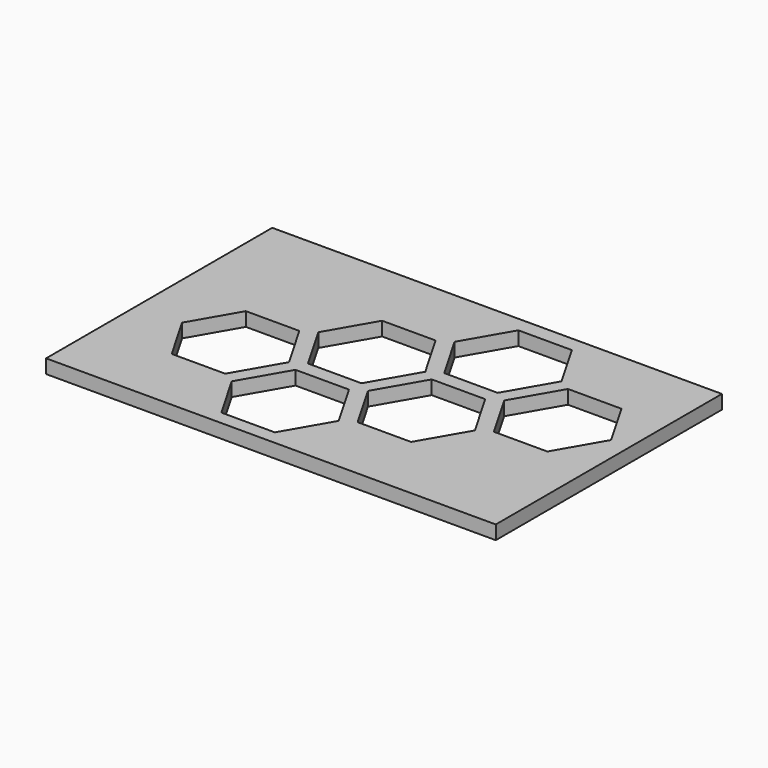
from build123d import *

# Parameters (mm, degrees)
F1_W     = 162.00855
F1_H     = 101.837539
F2_DEPTH = 5
F3_DEPTH = 5.001


with BuildPart() as f2:
    # F1 (on Top) → F2 (new body)
    with BuildSketch(Plane.XY):
        with Locations((45.444982, 10.055467)):
            Rectangle(F1_W, F1_H)
    extrude(amount=F2_DEPTH)

    # F0 (on Top) → F3 (cut, through all)
    with BuildSketch(Plane.XY):
        Polygon((-9.63525, -16.688743), (9.63525, -16.688743), (19.2705, 0), (9.63525, 16.688743), (-9.63525, 16.688743), (-19.2705, 0), align=None)
        Polygon((42.870847, -2.5), (23.600627, -2.5), (13.965517, -19.1885), (23.600627, -35.877), (42.870847, -35.877), (52.505957, -19.1885), align=None)
        Polygon((14.305305, 19.385), (23.940555, 2.696257), (43.211055, 2.696257), (52.846305, 19.385), (43.211055, 36.073743), (23.940555, 36.073743), align=None)
        Polygon((57.176432, -16.492), (76.446652, -16.492), (86.081762, 0.1965), (76.446652, 16.885), (57.176432, 16.885), (47.541322, 0.1965), align=None)
        Polygon((47.88111, 38.77), (57.51636, 22.081257), (76.78686, 22.081257), (86.42211, 38.77), (76.78686, 55.458743), (57.51636, 55.458743), align=None)
        Polygon((90.752237, 2.893), (110.022457, 2.893), (119.657567, 19.5815), (110.022457, 36.27), (90.752237, 36.27), (81.117127, 19.5815), align=None)
    extrude(amount=F3_DEPTH, mode=Mode.SUBTRACT)


solid = f2.part
